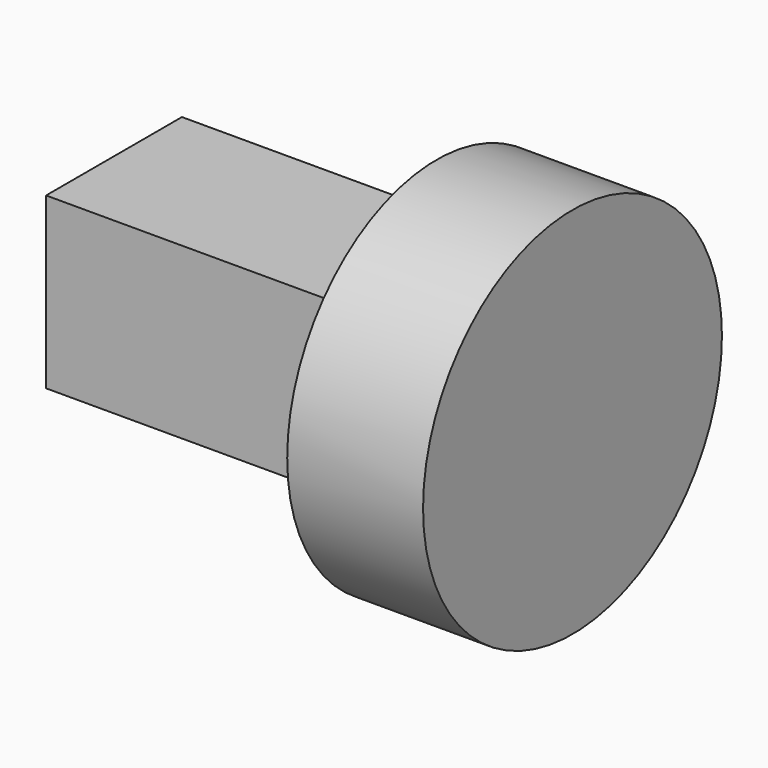
from build123d import *

# Parameters (mm, degrees)
F0_W     = 457.2
F0_H     = 254
F1_DEPTH = 254
F2_W     = 25.4
F2_H     = 25.4
F3_DEPTH = 25.4
F4_R     = 279.4
F5_DEPTH = 203.2


with BuildPart() as f1:
    # F0 (on Front) → F1 (new body)
    with BuildSketch(Plane.XZ):
        with Locations((228.6, 127)):
            Rectangle(F0_W, F0_H)
    extrude(amount=F1_DEPTH)

    # F2 (on face) → F3 (join)
    with BuildSketch(Plane.YZ.offset(457.2)):
        with Locations((-127, 127)):
            Rectangle(F2_W, F2_H)
    extrude(amount=F3_DEPTH)

    # F4 (on face) → F5 (join)
    with BuildSketch(Plane.YZ.offset(482.6)):
        with Locations((-127, 127)):
            Circle(F4_R)
    extrude(amount=F5_DEPTH)


solid = f1.part
